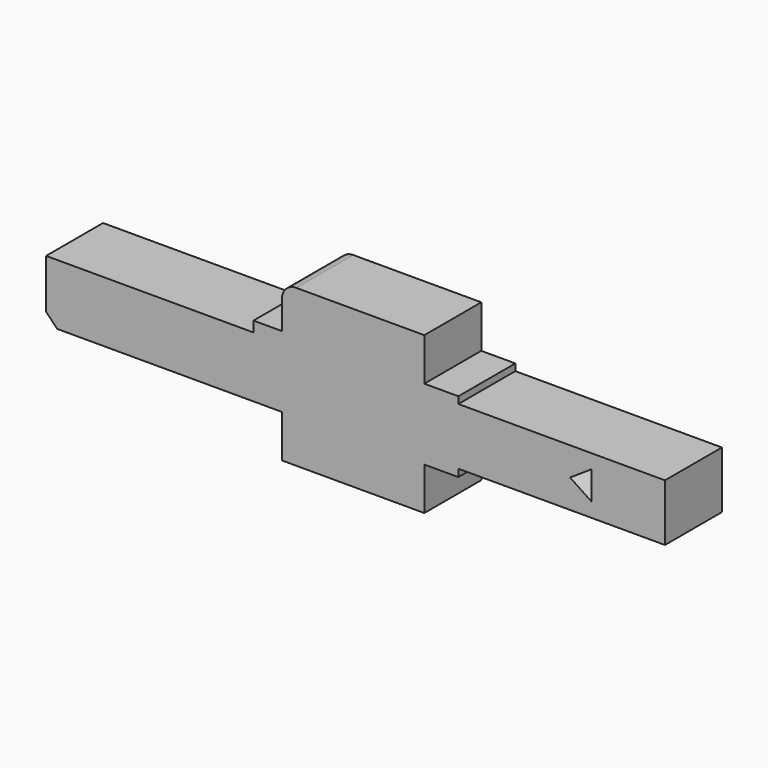
from build123d import *

# Parameters (mm, degrees)
F0_W     = 18.5124866861
F0_H     = 21.6614069645
F0_W_2   = 12.0454215246
F0_W_3   = 73.7178325796
F0_H_2   = 20.32
F1_DEPTH = 25.399999693
F2_R     = 5.08


with BuildPart() as f1:
    # F0 (on Front) → F1 (new body)
    with BuildSketch(Plane.XZ):
        with Locations((-60.7111408332, -5.0329225945)):
            Rectangle(F0_W, F0_H)
        Polygon((-74.0043607078, -11.8266495452), (-69.9673841763, -15.8636260767), (-69.9673841763, 5.7977808877), (-74.0043607078, 5.7977808877), align=None)
        with Locations((-45.4321867279, -5.0329225945)):
            Rectangle(F0_W_2, F0_H)
        Polygon((-39.4094759656, 5.7977808877), (-39.4094759656, -15.8636260767), (10.16, -15.8636260767), (10.16, 9.5363739233), (0, 9.5363739233), (0, 5.7977808877), align=None)
        Polygon((10.16, 9.5363739233), (10.16, -15.8636260767), (10.16, -31.1036260767), (20.1555099338, -31.1036260767), (20.1555099338, -15.7277081162), (31.0831721872, -15.5134415254), (31.0831721872, 9.3416357413), (19.0822575136, 9.3416357413), (19.0822575136, 24.7763739233), (10.16, 24.7763739233), align=None)
        Polygon((20.1555099338, -15.7277081162), (20.1555099338, -31.1036260767), (51.8696520655, -31.1036260767), (51.8696520655, -15.7424807711), (42.6536388695, -15.7424807711), (42.6536388695, 9.1273672879), (51.652893424, 9.3416357413), (51.652893424, 24.7763739233), (19.0822575136, 24.7763739233), (19.0822575136, 9.3416357413), (31.0831721872, 9.3416357413), (31.0831721872, -15.5134415254), align=None)
        Polygon((51.8696520655, -15.7424807711), (51.8696520655, -31.1036260767), (60.96, -31.1036260767), (60.96, -15.8636260767), (60.96, 9.5363739233), (60.96, 24.7763739233), (51.652893424, 24.7763739233), (51.652893424, 9.3416357413), (42.6536388695, 9.1273672879), (42.6536388695, -15.7424807711), align=None)
        Polygon((60.96, 9.5363739233), (60.96, -15.8636260767), (73.1124170143, -15.8636260767), (73.1124170143, -13.2178157567), (73.1124170143, 7.1021842433), (73.1124170143, 9.5363739233), align=None)
        with Locations((109.971333304, -3.0578157567)):
            Rectangle(F0_W_3, F0_H_2)
        Polygon((112.9683130925, -3.0190604849), (120.6068721646, 2.0565357327), (120.6068721646, -8.0946567025), align=None, mode=Mode.SUBTRACT)
    extrude(amount=-F1_DEPTH)

    # F2
    f2_edges = [f1.edges().sort_by_distance(p)[0] for p in [
        (10.16, 12.7, 24.776374),
    ]]
    fillet(f2_edges, radius=F2_R)


solid = f1.part
